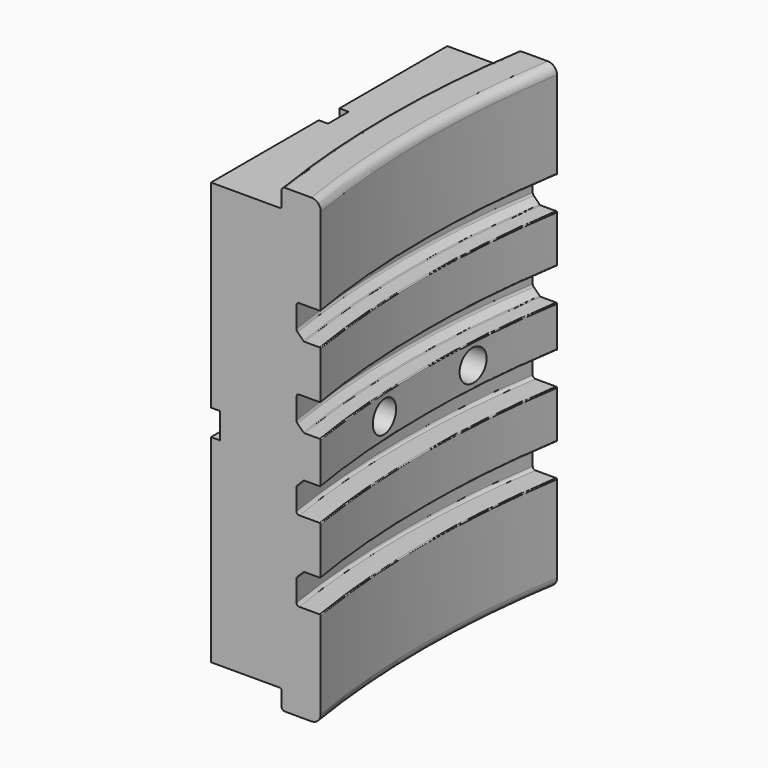
from build123d import *

# Parameters (mm, degrees)
F4_DEPTH  = 249.8010001
F6_DEPTH  = 228.8
F8_DEPTH  = 5
F9_R      = 5.5
F10_DEPTH = 49.2628423459
F14_R     = 8.5
F15_DEPTH = 25


with BuildPart() as f2:
    # F2: sweep along a path in F1
    with BuildLine(Plane.XY) as f2_path:
        ThreePointArc((-905.5585071701, 80), (-912, 0), (-905.5585071701, -80))
    # F0 (on Front) → F2 (sweep)
    with BuildSketch(Plane.XZ):
        with BuildLine():
            Line((-912, -10.8), (-912, 0))
            Line((-912, 0), (-912, 10.8))
            ThreePointArc((-912, 10.8), (-912.1464466094, 11.1535533906), (-912.5, 11.3))
            Line((-912.5, 11.3), (-920.6686291501, 11.3))
            ThreePointArc((-920.6686291501, 11.3), (-920.974775896, 11.360896374), (-921.2343145751, 11.5343145751))
            Line((-921.2343145751, 11.5343145751), (-924.4142135624, 14.7142135624))
            ThreePointArc((-924.4142135624, 14.7142135624), (-924.847759065, 15.36306026), (-925, 16.1284271247))
            Line((-925, 16.1284271247), (-925, 27.3))
            ThreePointArc((-925, 27.3), (-924.5606601718, 28.3606601718), (-923.5, 28.8))
            Line((-923.5, 28.8), (-912.5, 28.8))
            ThreePointArc((-912.5, 28.8), (-912.1464466094, 28.9464466094), (-912, 29.3))
            Line((-912, 29.3), (-912, 54.4))
            ThreePointArc((-912, 54.4), (-912.1464466094, 54.7535533906), (-912.5, 54.9))
            Line((-912.5, 54.9), (-920.6686291501, 54.9))
            ThreePointArc((-920.6686291501, 54.9), (-920.974775896, 54.960896374), (-921.2343145751, 55.1343145751))
            Line((-921.2343145751, 55.1343145751), (-924.4142135624, 58.3142135624))
            ThreePointArc((-924.4142135624, 58.3142135624), (-924.847759065, 58.96306026), (-925, 59.7284271247))
            Line((-925, 59.7284271247), (-925, 70.9))
            ThreePointArc((-925, 70.9), (-924.5606601718, 71.9606601718), (-923.5, 72.4))
            Line((-923.5, 72.4), (-912.5, 72.4))
            ThreePointArc((-912.5, 72.4), (-912.1464466094, 72.5464466094), (-912, 72.9))
            Line((-912, 72.9), (-912, 119.9))
            ThreePointArc((-912, 119.9), (-913.4644660941, 123.4355339059), (-917, 124.9))
            Line((-917, 124.9), (-931, 124.9))
            ThreePointArc((-931, 124.9), (-932.4142135624, 124.3142135624), (-933, 122.9))
            Line((-933, 122.9), (-933, 115.2))
            ThreePointArc((-933, 115.2), (-933.2343145751, 114.6343145751), (-933.8, 114.4))
            Line((-933.8, 114.4), (-965, 114.4))
            Line((-965, 114.4), (-965, 0))
            Line((-965, 0), (-965, -114.4))
            Line((-965, -114.4), (-933.8, -114.4))
            ThreePointArc((-933.8, -114.4), (-933.2343145751, -114.6343145751), (-933, -115.2))
            Line((-933, -115.2), (-933, -122.9))
            ThreePointArc((-933, -122.9), (-932.4142135624, -124.3142135624), (-931, -124.9))
            Line((-931, -124.9), (-917, -124.9))
            ThreePointArc((-917, -124.9), (-913.4644660941, -123.4355339059), (-912, -119.9))
            Line((-912, -119.9), (-912, -72.9))
            ThreePointArc((-912, -72.9), (-912.1464466094, -72.5464466094), (-912.5, -72.4))
            Line((-912.5, -72.4), (-923.5, -72.4))
            ThreePointArc((-923.5, -72.4), (-924.5606601718, -71.9606601718), (-925, -70.9))
            Line((-925, -70.9), (-925, -59.7284271247))
            ThreePointArc((-925, -59.7284271247), (-924.847759065, -58.96306026), (-924.4142135624, -58.3142135624))
            Line((-924.4142135624, -58.3142135624), (-921.2343145751, -55.1343145751))
            ThreePointArc((-921.2343145751, -55.1343145751), (-920.974775896, -54.960896374), (-920.6686291501, -54.9))
            Line((-920.6686291501, -54.9), (-912.5, -54.9))
            ThreePointArc((-912.5, -54.9), (-912.1464466094, -54.7535533906), (-912, -54.4))
            Line((-912, -54.4), (-912, -29.3))
            ThreePointArc((-912, -29.3), (-912.1464466094, -28.9464466094), (-912.5, -28.8))
            Line((-912.5, -28.8), (-923.5, -28.8))
            ThreePointArc((-923.5, -28.8), (-924.5606601718, -28.3606601718), (-925, -27.3))
            Line((-925, -27.3), (-925, -16.1284271247))
            ThreePointArc((-925, -16.1284271247), (-924.847759065, -15.36306026), (-924.4142135624, -14.7142135624))
            Line((-924.4142135624, -14.7142135624), (-921.2343145751, -11.5343145751))
            ThreePointArc((-921.2343145751, -11.5343145751), (-920.974775896, -11.360896374), (-920.6686291501, -11.3))
            Line((-920.6686291501, -11.3), (-912.5, -11.3))
            ThreePointArc((-912.5, -11.3), (-912.1464466094, -11.1535533906), (-912, -10.8))
        make_face()
    sweep(path=f2_path.line)

    # F3 (on face) → F4 (cut, through all)
    with BuildSketch(Plane.XY.offset(124.9)):
        with BuildLine():
            ThreePointArc((-957.8757089302, 88.48), (-958.5456936873, 84.2425350511), (-959.1827848169, 80))
            Line((-959.1827848169, 80), (-905.5585071701, 80))
            Line((-905.5585071701, 80), (-957.8757089302, 88.48))
        make_face()
        with BuildLine():
            ThreePointArc((-959.1827848169, -80), (-958.5456936873, -84.2425350511), (-957.8757089302, -88.48))
            Line((-957.8757089302, -88.48), (-905.5585071701, -80))
            Line((-905.5585071701, -80), (-959.1827848169, -80))
        make_face()
    extrude(amount=-F4_DEPTH, mode=Mode.SUBTRACT)

    # F5 (on face) → F6 (join, through all)
    with BuildSketch(Plane.XY.offset(114.4)):
        with BuildLine():
            ThreePointArc((-959.1827848169, -80), (-963.5437788625, -40.1056105566), (-965, 1e-10))
            Line((-965, 1e-10), (-965, -80))
            Line((-965, -80), (-959.1827848169, -80))
        make_face()
        with BuildLine():
            ThreePointArc((-965, 1e-10), (-963.5437788625, 40.1056105567), (-959.1827848169, 80))
            Line((-959.1827848169, 80), (-965, 80))
            Line((-965, 80), (-965, 1e-10))
        make_face()
    extrude(amount=-F6_DEPTH)

    # F7 (on face) → F8 (cut)
    with BuildSketch(Plane(origin=(-965, 0, 0), x_dir=(0, -1, 0), z_dir=(-1, 0, 0))):
        Polygon((-7, -7), (-7, -114.4), (7, -114.4), (7, -7), (80, -7), (80, 7), (7, 7), (7, 114.4), (-7, 114.4), (-7, 7), (-80, 7), (-80, -7), align=None)
    extrude(amount=-F8_DEPTH, mode=Mode.SUBTRACT)

    # F9 (on face) → F10 (cut, through all)
    with BuildSketch(Plane(origin=(-960, 0, 0), x_dir=(0, -1, 0), z_dir=(-1, 0, 0))):
        with Locations((-30, 0)):
            Circle(F9_R)
        with Locations((30, 0)):
            Circle(F9_R)
    extrude(amount=-F10_DEPTH, mode=Mode.SUBTRACT)

    # F14 (on 3pt) → F15 (cut)
    with BuildSketch(Plane(origin=(-923, 0, 0), x_dir=(0, -1, 0), z_dir=(-1, 0, 0))):
        with Locations((30, 0)):
            Circle(F14_R)
        with Locations((-30, 0)):
            Circle(F14_R)
    extrude(amount=-F15_DEPTH, mode=Mode.SUBTRACT)


solid = f2.part
